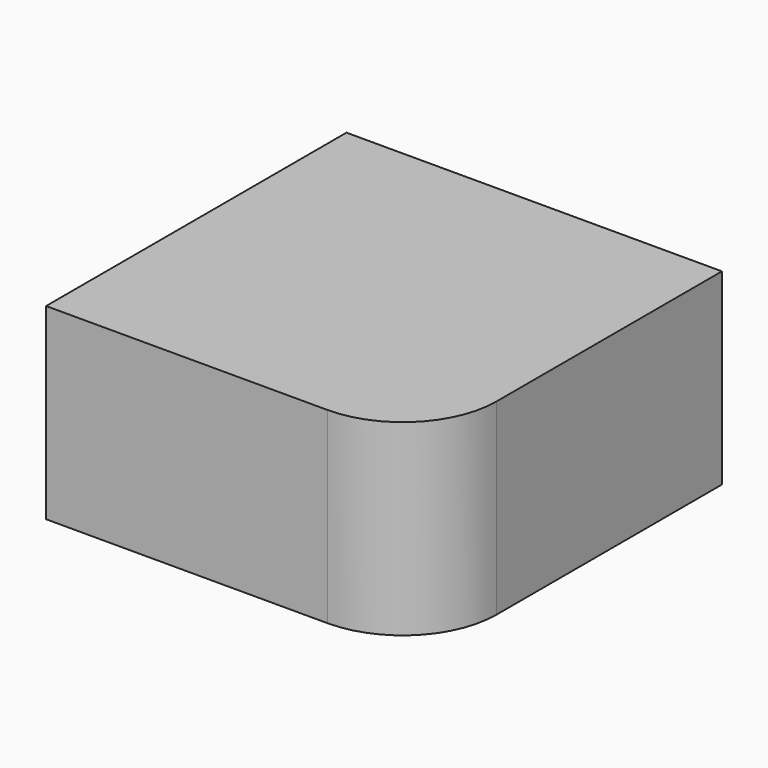
from build123d import *

# Parameters (mm, degrees)
F0_R     = 6.4637008333
F1_DEPTH = 10
F2_DEPTH = 10


with BuildPart() as f1:
    # F0 (on Top) → F1 (new body)
    with BuildSketch(Plane.XY):
        with BuildLine():
            Line((-34.9115224183, -4.7456585551), (-54.9115224183, -4.7456585551))
            Line((-54.9115224183, -4.7456585551), (-54.9115224183, -24.7456585551))
            Line((-54.9115224183, -24.7456585551), (-39.9115224183, -24.7456585551))
            ThreePointArc((-39.9115224183, -24.7456585551), (-36.3759885123, -23.2811924611), (-34.9115224183, -19.7456585551))
            Line((-34.9115224183, -19.7456585551), (-34.9115224183, -4.7456585551))
        make_face()
        with Locations((-44.9115224183, -14.7456585551)):
            Circle(F0_R, mode=Mode.SUBTRACT)
        with Locations((-44.9115224183, -14.7456585551)):
            Circle(F0_R)
    extrude(amount=F1_DEPTH)

    # F0 (on Top) → F2 (join)
    with BuildSketch(Plane.XY):
        with BuildLine():
            Line((-34.9115224183, -4.7456585551), (-54.9115224183, -4.7456585551))
            Line((-54.9115224183, -4.7456585551), (-54.9115224183, -24.7456585551))
            Line((-54.9115224183, -24.7456585551), (-39.9115224183, -24.7456585551))
            ThreePointArc((-39.9115224183, -24.7456585551), (-36.3759885123, -23.2811924611), (-34.9115224183, -19.7456585551))
            Line((-34.9115224183, -19.7456585551), (-34.9115224183, -4.7456585551))
        make_face()
        with Locations((-44.9115224183, -14.7456585551)):
            Circle(F0_R, mode=Mode.SUBTRACT)
    extrude(amount=F2_DEPTH)


solid = f1.part
